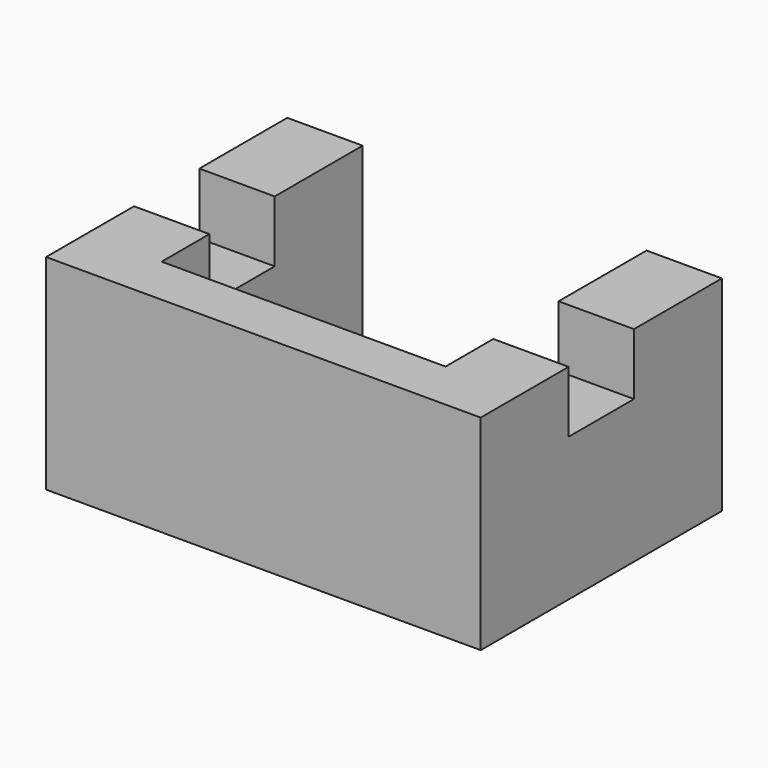
from build123d import *

# Parameters (mm, degrees)
F0_W     = 15
F0_H     = 60
F1_DEPTH = 28.5
F3_W     = 56.5
F3_H     = 50
F4_DEPTH = 28.501
F2_W     = 15
F2_H     = 21.875
F5_DEPTH = 12.25
F6_DEPTH = 71.5
F7_DEPTH = 40.751


with BuildPart() as f1:
    # F0 (on Top) → F1 (new body)
    with BuildSketch(Plane.XY):
        Rectangle(F0_W, F0_H)
    extrude(amount=F1_DEPTH)

    # F3 (on face) → F4 (cut, through all)
    with BuildSketch(Plane(origin=(0, 0, 0), x_dir=(1, 0, 0), z_dir=(0, 0, -1))):
        with Locations((35.75, -5)):
            Rectangle(F3_W, F3_H)
    extrude(amount=-F4_DEPTH, mode=Mode.SUBTRACT)

    # F2 (on face) → F5 (join)
    with BuildSketch(Plane.XY.offset(28.5)):
        with Locations((0, 19.0625)):
            Rectangle(F2_W, F2_H)
        with Locations((0, -19.0625)):
            Rectangle(F2_W, F2_H)
    extrude(amount=F5_DEPTH)

    # F5_face (on face) → F6 (join)
    with BuildSketch(Plane(origin=(7.5, 0, 19.11199), x_dir=(0, 1, 0), z_dir=(1, 0, 0))):
        Polygon((-30, -19.11199), (30, -19.11199), (30, 21.63801), (8.125, 21.63801), (8.125, 9.38801), (-8.125, 9.38801), (-8.125, 21.63801), (-30, 21.63801), align=None)
    extrude(amount=F6_DEPTH)

    # F3 (on face) → F7 (cut, through all)
    with BuildSketch(Plane(origin=(0, 0, 0), x_dir=(1, 0, 0), z_dir=(0, 0, -1))):
        with Locations((35.75, -5)):
            Rectangle(F3_W, F3_H)
    extrude(amount=-F7_DEPTH, mode=Mode.SUBTRACT)


solid = f1.part
